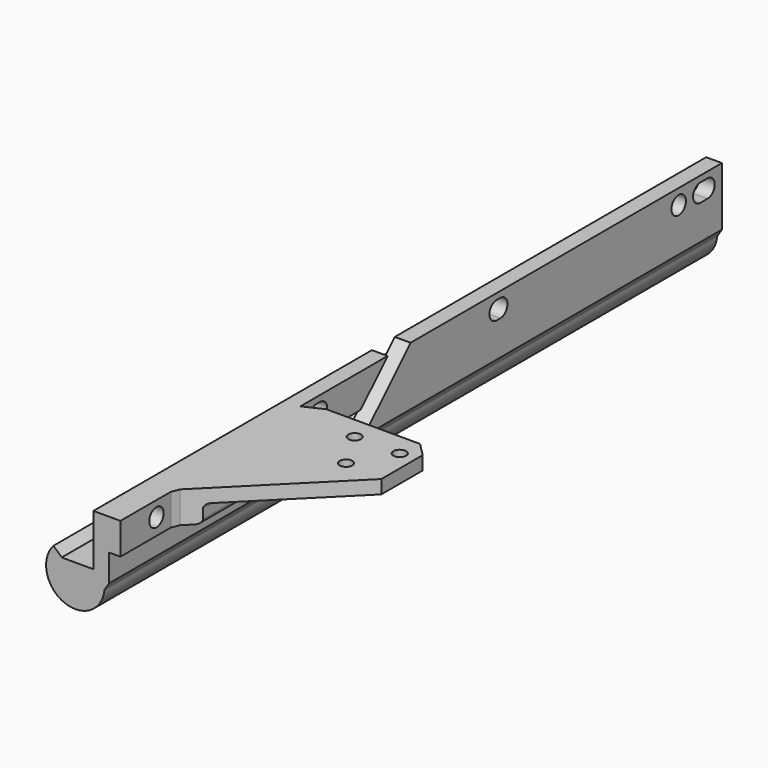
from build123d import *

# Parameters (mm, degrees)
PAD_DEPTH            = 170
PAD001_DEPTH         = 170
SKETCH003_W          = 7
SKETCH003_H          = 55
PAD002_DEPTH         = 29
POCKET_DEPTH         = 9
POCKET001_DEPTH      = 25
SKETCH005_R          = 1.4
POCKET002_DEPTH      = 7.001
SKETCH001_R          = 2
POCKET003_DEPTH      = 5
POCKET003_DEPTH_BACK = -100
POCKET004_DEPTH      = 40
PAD003_DEPTH         = 4
PAD004_DEPTH         = 61
POCKET005_DEPTH      = 5
POCKET005_DEPTH_BACK = -100
POCKET006_DEPTH      = 9
CHAMFER_SIZE         = 3
CHAMFER001_SIZE      = 1
FILLET_R             = 1
FILLET001_R          = 1


with BuildPart() as part:
    # Sketch → Pad (new body)
    with BuildSketch(Plane.XZ):
        with BuildLine():
            Line((0, 0), (2.5, 0))
            Line((2.5, 0), (2.5, -14))
            ThreePointArc((-8.875, -9.700654), (-6.298097, -20.080193), (2.5, -14))
            Line((-8.875, -9.700654), (-7, -11.354249))
            ThreePointArc((-7, -11.354249), (-5.414214, -17.741657), (0, -14))
            Line((0, 0), (0, -14))
        make_face()
    extrude(amount=PAD_DEPTH)

    # Sketch012 → Pad001 (join)
    with BuildSketch(Plane.XZ.offset(170)):
        Polygon((3.5, 0), (3.5, -13), (0.771706, -17.379086), (0.771706, 0), align=None)
    extrude(amount=-PAD001_DEPTH)

    # Sketch003 → Pad002 (join)
    with BuildSketch(Plane(origin=(2.5, 0, 0), x_dir=(0, 0, 1), z_dir=(1, 0, 0))):
        with Locations((-3.5, 142.5)):
            Rectangle(SKETCH003_W, SKETCH003_H)
    extrude(amount=PAD002_DEPTH)

    # Sketch008 → Pocket (cut)
    with BuildSketch(Plane(origin=(0, 0, 0), x_dir=(-1, 0, 0), z_dir=(0, 0, 1))):
        Polygon((-6, 171.390472), (-6, 155), (-43.587333, 117.412667), (-43.587333, 179.575119), align=None)
    extrude(amount=-POCKET_DEPTH, mode=Mode.SUBTRACT)

    # Sketch011 → Pocket001 (cut)
    with BuildSketch(Plane(origin=(34.5, 0, 0), x_dir=(0, 0, 1), z_dir=(1, 0, 0))):
        Polygon((-11.354396, 166.316992), (-3, 157.962596), (-3, 109.627052), (-19.434643, 110.990524), align=None)
    extrude(amount=-POCKET001_DEPTH, mode=Mode.SUBTRACT)

    # Sketch005 → Pocket002 (cut, through all)
    with BuildSketch(Plane(origin=(0, 0, -7), x_dir=(1, 0, 0), z_dir=(0, 0, -1))):
        with Locations((28, 120)):
            Circle(SKETCH005_R)
        with Locations((18, 120)):
            Circle(SKETCH005_R)
        with Locations((23, 128.660254)):
            Circle(SKETCH005_R)
    extrude(amount=-POCKET002_DEPTH, mode=Mode.SUBTRACT)

    # Sketch001 (on Face2 of Pad) → Pocket003 (cut, two sides)
    with BuildSketch(Plane(origin=(2.5, 0, 0), x_dir=(0, 0, 1), z_dir=(1, 0, 0))) as pocket003_sk:
        with Locations((-3.35, 12)):
            Circle(SKETCH001_R)
        with Locations((-3.35, 160)):
            Circle(SKETCH001_R)
        with BuildLine():
            ThreePointArc((-1.35, 6), (-3.35, 8), (-5.35, 6))
            Line((-5.35, 6), (-5.35, 4))
            ThreePointArc((-5.35, 4), (-3.35, 2), (-1.35, 4))
            Line((-1.35, 6), (-1.35, 4))
        make_face()
        with BuildLine():
            ThreePointArc((-1.35, 112.5), (-3.35, 114.5), (-5.35, 112.5))
            Line((-5.35, 112.5), (-5.35, 111.5))
            ThreePointArc((-5.35, 111.5), (-3.35, 109.5), (-1.35, 111.5))
            Line((-1.35, 112.5), (-1.35, 111.5))
        make_face()
        with BuildLine():
            ThreePointArc((-1.35, 62.5), (-3.35, 64.5), (-5.35, 62.5))
            Line((-5.35, 62.5), (-5.35, 61.5))
            ThreePointArc((-5.35, 61.5), (-3.35, 59.5), (-1.35, 61.5))
            Line((-1.35, 62.5), (-1.35, 61.5))
        make_face()
    extrude(amount=-POCKET003_DEPTH, mode=Mode.SUBTRACT)
    extrude(pocket003_sk.sketch, amount=-POCKET003_DEPTH_BACK, mode=Mode.SUBTRACT)

    # Sketch006 → Pocket004 (cut)
    with BuildSketch(Plane(origin=(0, 0, 0), x_dir=(1, 0, 0), z_dir=(0, 1, 0))):
        with BuildLine():
            ThreePointArc((-3.5, 5), (1.5, 10), (-3.5, 15))
            Line((-3.5, 15), (-3.5, 5))
        make_face()
    extrude(amount=-POCKET004_DEPTH, mode=Mode.SUBTRACT)

    # Sketch009 → Pad003 (join)
    with BuildSketch(Plane(origin=(0, 0, 0), x_dir=(1, 0, 0), z_dir=(0, 1, 0))):
        Polygon((-8.988888, 11.321152), (0, 11.321152), (0, 5.375637), (1.760757, 5.375637), (1.760757, 16.152864), (-3.184568, 19.176249), (-9.013494, 16.474098), align=None)
    extrude(amount=-PAD003_DEPTH)

    # Sketch010 → Pad004 (join)
    with BuildSketch(Plane.XZ.offset(170)):
        Polygon((1.607719, -11.392114), (-8.313037, -11.392114), (-9.514894, -14.319767), (-8.858657, -17.099121), (-6.117905, -19.22224), (-3.18414, -19.22224), (0.714678, -18.102777), (1.607719, -15.709445), align=None)
    extrude(amount=-PAD004_DEPTH)

    # Sketch004 → Pocket005 (cut, two sides)
    with BuildSketch(Plane(origin=(2.5, 0, 0), x_dir=(0, 0, 1), z_dir=(1, 0, 0))) as pocket005_sk:
        Polygon((-9.5, 109.884079), (-7.5, 107.884079), (-7.5, 100.23037), (1.897298, 90.833072), (4.794627, 81.589452), (-11.5, 97.884079), (-11.5, 107.884079), align=None)
    extrude(amount=-POCKET005_DEPTH, mode=Mode.SUBTRACT)
    extrude(pocket005_sk.sketch, amount=-POCKET005_DEPTH_BACK, mode=Mode.SUBTRACT)

    # Sketch013 (on Face63 of Pocket005) → Pocket006 (cut)
    with BuildSketch(Plane(origin=(0, 0, 0), x_dir=(-1, 0, 0), z_dir=(0, 0, 1))):
        Polygon((-3.5, 112.04879), (-3.5, 116.943748), (-13.285114, 112.394318), align=None)
    extrude(amount=-POCKET006_DEPTH, mode=Mode.SUBTRACT)

    # Chamfer
    chamfer_edges = [part.edges().sort_by_distance(p)[0] for p in [
        (31.5, -115, -1.5),
    ]]
    chamfer(chamfer_edges, length=CHAMFER_SIZE)

    # Chamfer001
    chamfer001_edges = [part.edges().sort_by_distance(p)[0] for p in [
        (6, -155, -3.5),
    ]]
    chamfer(chamfer001_edges, length=CHAMFER001_SIZE)

    # Fillet
    fillet_edges = [part.edges().sort_by_distance(p)[0] for p in [
        (9.5, -133.25, -3),
    ]]
    fillet(fillet_edges, radius=FILLET_R)

    # Fillet001
    fillet001_edges = [part.edges().sort_by_distance(p)[0] for p in [
        (9.5, -133.25, -7),
    ]]
    fillet(fillet001_edges, radius=FILLET001_R)


solid = part.part
